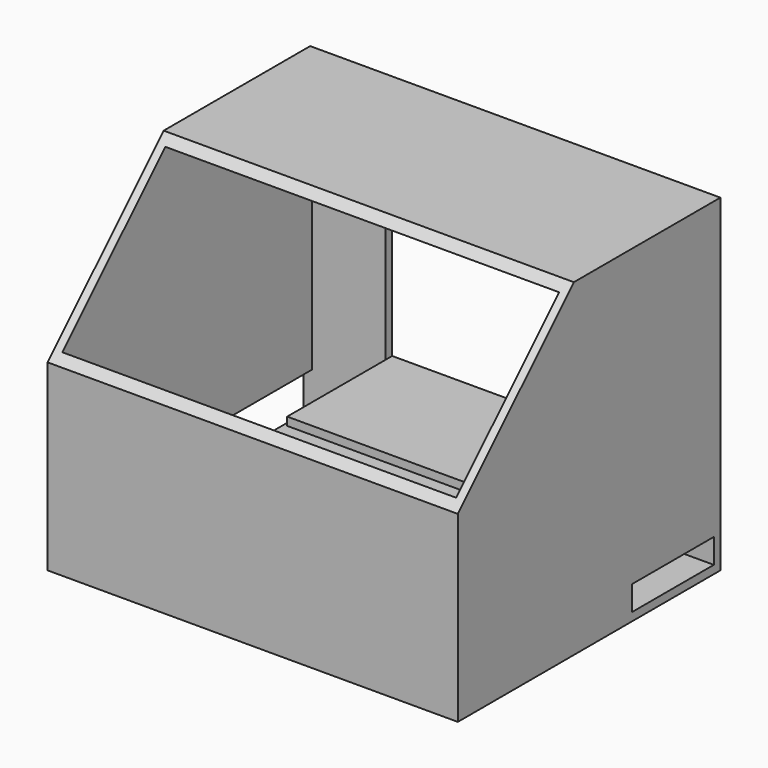
from build123d import *

# Parameters (mm, degrees)
F0_W     = 25
F0_H     = 6
F1_DEPTH = 100
F2_T     = -2
F3_DEPTH = 2
F4_W     = 27
F4_H     = 10
F5_DEPTH = 2
F6_W     = 60
F6_H     = 32
F7_DEPTH = 2
F6_H_2   = 2
F8_DEPTH = 32


with BuildPart() as f1:
    # F0 (on Right) → F1 (new body)
    with BuildSketch(Plane.YZ):
        Polygon((-49.9118241506, 29.1949231178), (-49.9118241506, -15.4497378229), (30.0881758494, -15.4497378229), (30.0881758494, 64.5502621771), (-14.5564850913, 64.5502621771), align=None)
        with Locations((15.5881758494, -10.4497378229)):
            Rectangle(F0_W, F0_H, mode=Mode.SUBTRACT)
        with Locations((15.5881758494, -10.4497378229)):
            Rectangle(F0_W, F0_H)
    extrude(amount=-F1_DEPTH)

    # F2
    f2_openings = [f1.faces().sort_by_distance(p)[0] for p in [
        (-50, -32.234155, 46.872593),
    ]]
    offset(amount=F2_T, openings=f2_openings)

    # F0 (on Right) → F3 (cut)
    with BuildSketch(Plane.YZ):
        with Locations((15.5881758494, -10.4497378229)):
            Rectangle(F0_W, F0_H)
    extrude(amount=-F3_DEPTH, mode=Mode.SUBTRACT)

    # F4 (on face) → F5 (cut)
    with BuildSketch(Plane(origin=(-100, 0, 0), x_dir=(0, -1, 0), z_dir=(-1, 0, 0))):
        with Locations((-14.5881758494, -8.4497378229)):
            Rectangle(F4_W, F4_H)
    extrude(amount=-F5_DEPTH, mode=Mode.SUBTRACT)

    # F6 (on face) → F7 (cut)
    with BuildSketch(Plane(origin=(0, 30.0881758494, 0), x_dir=(-1, 0, 0), z_dir=(0, 1, 0))):
        with Locations((50, 20.5502621771)):
            Rectangle(F6_W, F6_H)
    extrude(amount=-F7_DEPTH, mode=Mode.SUBTRACT)

    # F6 (on face) → F8 (join)
    with BuildSketch(Plane(origin=(0, 30.0881758494, 0), x_dir=(-1, 0, 0), z_dir=(0, 1, 0))):
        with Locations((50, 3.5502621771)):
            Rectangle(F6_W, F6_H_2)
    extrude(amount=-F8_DEPTH)


solid = f1.part
